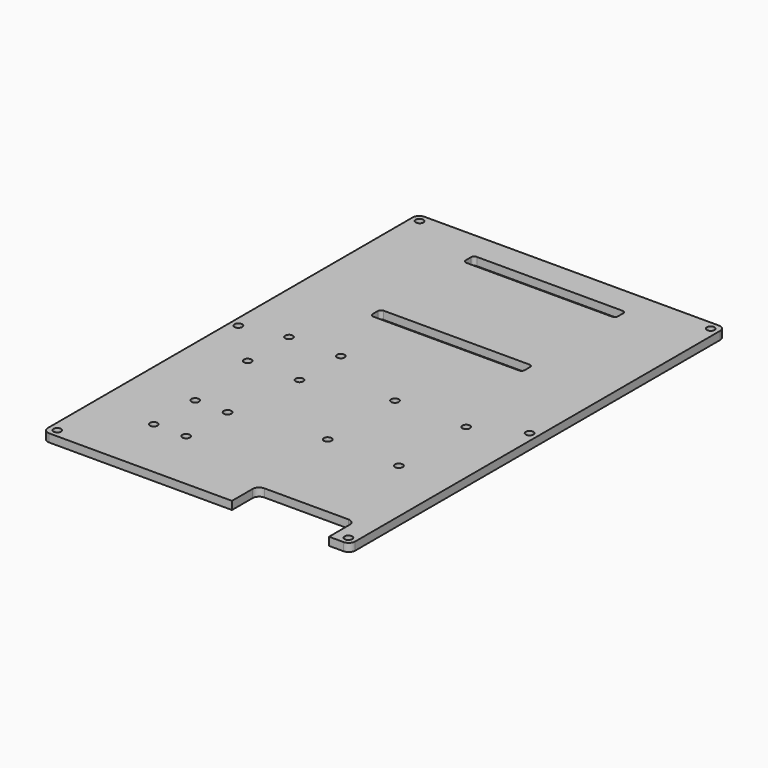
from build123d import *

# Parameters (mm, degrees)
PAD_DEPTH       = 3.175
SKETCH001_R     = 1.5
POCKET_DEPTH    = 3.176
POCKET001_DEPTH = 3.176
SKETCH003_R     = 1.5
POCKET002_DEPTH = 5
POCKET003_DEPTH = 3.176
SKETCH005_R     = 1.5
POCKET004_DEPTH = 3.176
SKETCH006_R     = 1.5
POCKET005_DEPTH = 3.176


with BuildPart() as part:
    # Sketch → Pad (new body)
    with BuildSketch(Plane.XY):
        with BuildLine():
            ThreePointArc((-57.785, 92.075), (-59.581051, 91.331051), (-60.325, 89.535))
            Line((-60.325, -89.535), (-60.325, 89.535))
            ThreePointArc((-60.325, -89.535), (-59.581051, -91.331051), (-57.785, -92.075))
            Line((57.785, -92.075), (-57.785, -92.075))
            ThreePointArc((57.785, -92.075), (59.581051, -91.331051), (60.325, -89.535))
            Line((60.325, 89.535), (60.325, -89.535))
            ThreePointArc((60.325, 89.535), (59.581051, 91.331051), (57.785, 92.075))
            Line((-57.785, 92.075), (57.785, 92.075))
        make_face()
    extrude(amount=PAD_DEPTH)

    # Sketch001 (on DatumPlane) → Pocket (cut, through all)
    with BuildSketch(Plane.XY.offset(3.175)):
        with Locations((-57.15, 88.9)):
            Circle(SKETCH001_R)
        with Locations((57.15, 88.9)):
            Circle(SKETCH001_R)
        with Locations((-57.15, -88.9)):
            Circle(SKETCH001_R)
        with Locations((57.15, -88.9)):
            Circle(SKETCH001_R)
        with Locations((-57.15, 0)):
            Circle(SKETCH001_R)
        with Locations((57.15, 0)):
            Circle(SKETCH001_R)
    extrude(amount=-POCKET_DEPTH, mode=Mode.SUBTRACT)

    # Sketch002 (on DatumPlane) → Pocket001 (cut, through all)
    with BuildSketch(Plane.XY.offset(3.175)):
        with BuildLine():
            ThreePointArc((-28.575, 81.28), (-29.473026, 80.908026), (-29.845, 80.01))
            Line((-29.845, 77.47), (-29.845, 80.01))
            ThreePointArc((-29.845, 77.47), (-29.473026, 76.571974), (-28.575, 76.2))
            Line((28.575, 76.2), (-28.575, 76.2))
            ThreePointArc((28.575, 76.2), (29.473026, 76.571974), (29.845, 77.47))
            Line((29.845, 80.01), (29.845, 77.47))
            ThreePointArc((29.845, 80.01), (29.473026, 80.908026), (28.575, 81.28))
            Line((-28.575, 81.28), (28.575, 81.28))
        make_face()
        with BuildLine():
            ThreePointArc((-28.575, 35.56), (-29.473026, 35.188026), (-29.845, 34.29))
            Line((-29.845, 31.75), (-29.845, 34.29))
            ThreePointArc((-29.845, 31.75), (-29.473026, 30.851974), (-28.575, 30.48))
            Line((28.575, 30.48), (-28.575, 30.48))
            ThreePointArc((28.575, 30.48), (29.473026, 30.851974), (29.845, 31.75))
            Line((29.845, 34.29), (29.845, 31.75))
            ThreePointArc((29.845, 34.29), (29.473026, 35.188026), (28.575, 35.56))
            Line((-28.575, 35.56), (28.575, 35.56))
        make_face()
    extrude(amount=-POCKET001_DEPTH, mode=Mode.SUBTRACT)

    # Sketch003 (on DatumPlane) → Pocket002 (cut)
    with BuildSketch(Plane.XY.offset(3.175)):
        with Locations((11.43, -8.89)):
            Circle(SKETCH003_R)
        with Locations((39.37, -8.89)):
            Circle(SKETCH003_R)
        with Locations((11.43, -41.91)):
            Circle(SKETCH003_R)
        with Locations((39.37, -41.91)):
            Circle(SKETCH003_R)
    extrude(amount=-POCKET002_DEPTH, mode=Mode.SUBTRACT)

    # Sketch004 (on DatumPlane) → Pocket003 (cut, through all)
    with BuildSketch(Plane.XY.offset(3.175)):
        with BuildLine():
            Line((13.97, -92.075), (13.97, -81.915))
            ThreePointArc((16.51, -79.375), (14.713949, -80.118949), (13.97, -81.915))
            Line((16.51, -79.375), (49.53, -79.375))
            ThreePointArc((52.07, -81.915), (51.326051, -80.118949), (49.53, -79.375))
            Line((52.07, -81.915), (52.07, -92.075))
            Line((52.07, -92.075), (52.07, -95.885))
            ThreePointArc((49.53, -98.425), (51.326051, -97.681051), (52.07, -95.885))
            Line((49.53, -98.425), (16.51, -98.425))
            ThreePointArc((13.97, -95.885), (14.713949, -97.681051), (16.51, -98.425))
            Line((13.97, -95.885), (13.97, -92.075))
        make_face()
    extrude(amount=-POCKET003_DEPTH, mode=Mode.SUBTRACT)

    # Sketch005 (on DatumPlane) → Pocket004 (cut, through all)
    with BuildSketch(Plane.XY.offset(3.175)):
        with Locations((-40.3225, 3.81)):
            Circle(SKETCH005_R)
        with Locations((-20.0025, 3.81)):
            Circle(SKETCH005_R)
        with Locations((-40.3225, -16.51)):
            Circle(SKETCH005_R)
        with Locations((-20.0025, -16.51)):
            Circle(SKETCH005_R)
    extrude(amount=-POCKET004_DEPTH, mode=Mode.SUBTRACT)

    # Sketch006 (on DatumPlane) → Pocket005 (cut, through all)
    with BuildSketch(Plane.XY.offset(3.175)):
        with Locations((-36.5125, -46.99)):
            Circle(SKETCH006_R)
        with Locations((-23.8125, -46.99)):
            Circle(SKETCH006_R)
        with Locations((-36.5125, -67.31)):
            Circle(SKETCH006_R)
        with Locations((-23.8125, -67.31)):
            Circle(SKETCH006_R)
    extrude(amount=-POCKET005_DEPTH, mode=Mode.SUBTRACT)


solid = part.part
